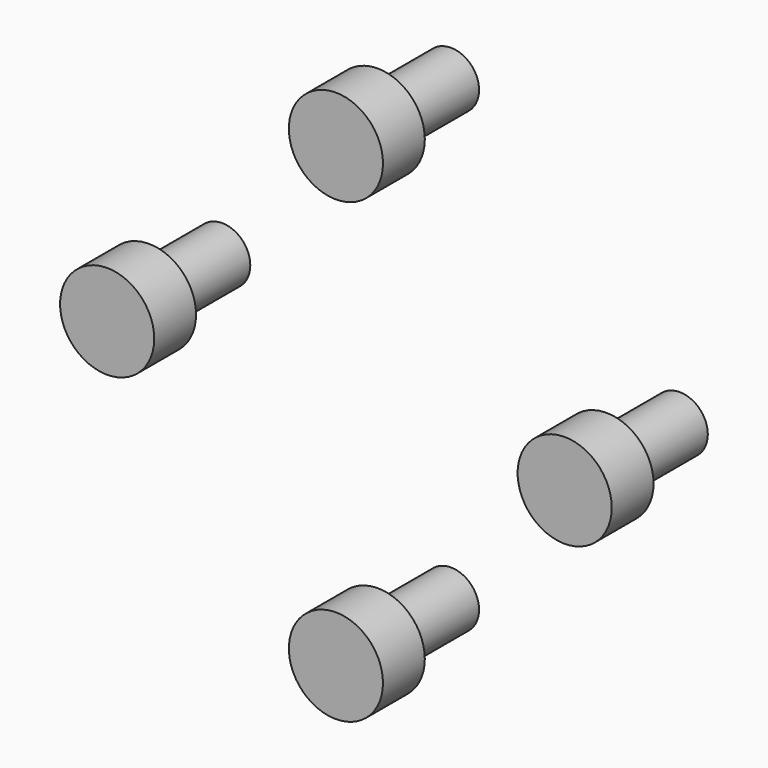
from build123d import *

# Parameters (mm, degrees)
CYLINDER014005834_R             = 3.6
CYLINDER014005834_DEPTH         = 4
CYLINDER014005827_R             = 3.6
CYLINDER014005827_DEPTH         = 4
CYLINDER014005826_R             = 3.6
CYLINDER014005826_DEPTH         = 4
CYLINDER014005828_R             = 3.6
CYLINDER014005828_DEPTH         = 4
CYLINDER014005838_R             = 2.15
CYLINDER014005838_DEPTH         = 10
CYLINDER014005836_R             = 2.15
CYLINDER014005836_DEPTH         = 10
CYLINDER014005837_R             = 2.15
CYLINDER014005837_DEPTH         = 10
CYLINDER014005835_R             = 2.15
CYLINDER014005835_DEPTH         = 10
FUSION001089085_PLACEMENT_ANGLE = 90


with BuildPart() as obj1:
    # Cylinder014005834 → Cylinder014005834 (new body)
    with BuildSketch(Plane(origin=(0, -17.5, 0), x_dir=(1, 0, 0), z_dir=(0, 0, 1))):
        Circle(CYLINDER014005834_R)
    extrude(amount=CYLINDER014005834_DEPTH)


with BuildPart() as obj2:
    # Cylinder014005827 → Cylinder014005827 (new body)
    with BuildSketch(Plane(origin=(-17.5, 0, 0), x_dir=(1, 0, 0), z_dir=(0, 0, 1))):
        Circle(CYLINDER014005827_R)
    extrude(amount=CYLINDER014005827_DEPTH)


with BuildPart() as obj3:
    # Cylinder014005826 → Cylinder014005826 (new body)
    with BuildSketch(Plane(origin=(0, 17.5, 0), x_dir=(1, 0, 0), z_dir=(0, 0, 1))):
        Circle(CYLINDER014005826_R)
    extrude(amount=CYLINDER014005826_DEPTH)


with BuildPart() as obj4:
    # Cylinder014005828 → Cylinder014005828 (new body)
    with BuildSketch(Plane(origin=(17.5, 0, 0), x_dir=(1, 0, 0), z_dir=(0, 0, 1))):
        Circle(CYLINDER014005828_R)
    extrude(amount=CYLINDER014005828_DEPTH)

    # Fusion001089086: union obj1, obj2, obj3
    add(obj1.part)
    add(obj2.part)
    add(obj3.part)


with BuildPart() as obj4_1:
    # Fusion001089086 placement: moved
    add(obj4.part.moved(Location((0, 0, -1))))


with BuildPart() as obj5:
    # Cylinder014005838 → Cylinder014005838 (new body)
    with BuildSketch(Plane(origin=(0, -17.5, 0), x_dir=(1, 0, 0), z_dir=(0, 0, 1))):
        Circle(CYLINDER014005838_R)
    extrude(amount=CYLINDER014005838_DEPTH)


with BuildPart() as obj6:
    # Cylinder014005836 → Cylinder014005836 (new body)
    with BuildSketch(Plane(origin=(-17.5, 0, 0), x_dir=(1, 0, 0), z_dir=(0, 0, 1))):
        Circle(CYLINDER014005836_R)
    extrude(amount=CYLINDER014005836_DEPTH)


with BuildPart() as obj7:
    # Cylinder014005837 → Cylinder014005837 (new body)
    with BuildSketch(Plane(origin=(0, 17.5, 0), x_dir=(1, 0, 0), z_dir=(0, 0, 1))):
        Circle(CYLINDER014005837_R)
    extrude(amount=CYLINDER014005837_DEPTH)


with BuildPart() as obj8:
    # Cylinder014005835 → Cylinder014005835 (new body)
    with BuildSketch(Plane(origin=(17.5, 0, 0), x_dir=(1, 0, 0), z_dir=(0, 0, 1))):
        Circle(CYLINDER014005835_R)
    extrude(amount=CYLINDER014005835_DEPTH)

    # Fusion001089087: union obj5, obj6, obj7
    add(obj5.part)
    add(obj6.part)
    add(obj7.part)

    # Fusion001089085: union obj4
    add(obj4_1.part)


with BuildPart() as obj8_1:
    # Fusion001089085 placement: moved
    add(obj8.part.moved(Location((0, 47, 0))).rotate(Axis((0, 47, 0), (-1, 0, 0)), FUSION001089085_PLACEMENT_ANGLE))


solid = obj8_1.part
